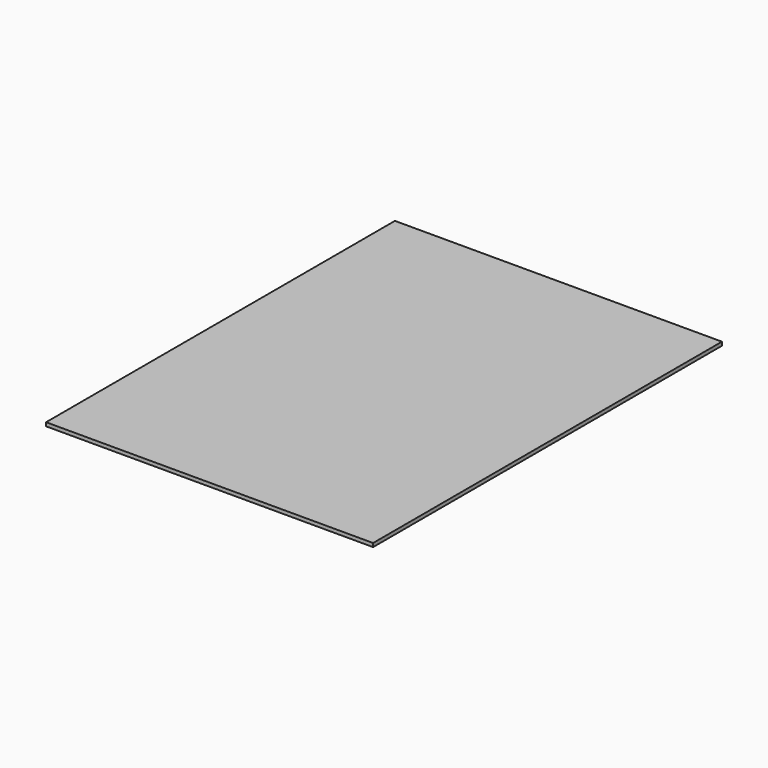
from build123d import *

# Parameters (mm, degrees)
SKETCH_W  = 900
SKETCH_H  = 1200
PAD_DEPTH = 10


with BuildPart() as part:
    # Sketch → Pad (new body)
    with BuildSketch(Plane.XY):
        with Locations((450, 600)):
            Rectangle(SKETCH_W, SKETCH_H)
    extrude(amount=PAD_DEPTH)


solid = part.part
